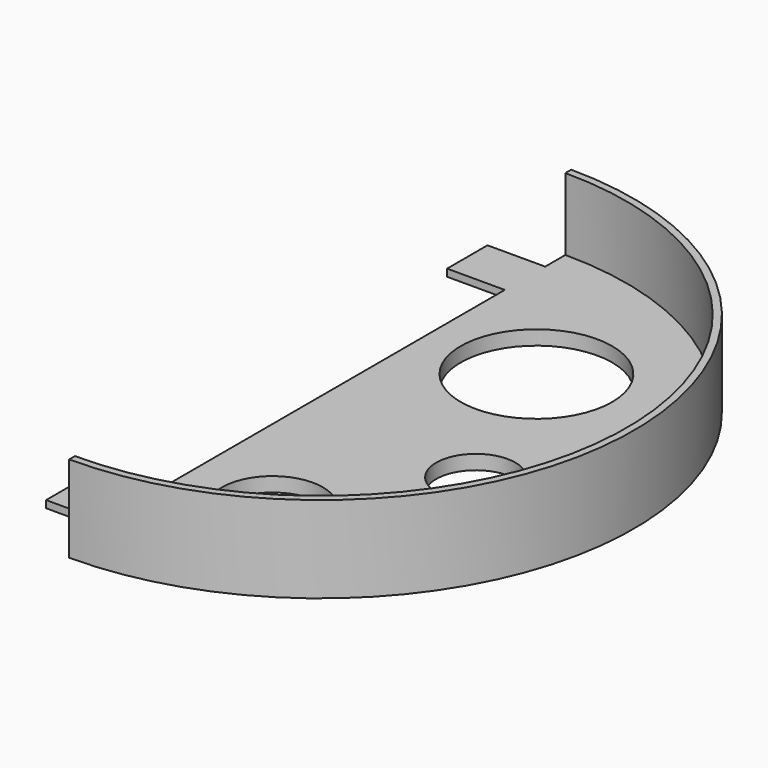
from build123d import *

# Parameters (mm, degrees)
F1_DEPTH = 12
F2_R     = 42.5
F3_DEPTH = 10
F4_R     = 10.5
F4_R_2   = 5.5
F4_R_3   = 7
F5_DEPTH = 2.001
F6_W     = 7
F6_H     = 1
F7_DEPTH = 8


with BuildPart() as f1:
    # F0 (on Top) → F1 (new body)
    with BuildSketch(Plane.XY):
        with BuildLine():
            Line((0, 43.5), (0, -43.5))
            ThreePointArc((0, -43.5), (43.5, 0), (0, 43.5))
        make_face()
    extrude(amount=F1_DEPTH)

    # F2 (on face) → F3 (cut)
    with BuildSketch(Plane.XY.offset(12)):
        Circle(F2_R)
    extrude(amount=-F3_DEPTH, mode=Mode.SUBTRACT)

    # F4 (on face) → F5 (cut, through all)
    with BuildSketch(Plane.XY.offset(2)):
        with Locations((-15, 18.734994)):
            Circle(F4_R)
        with Locations((-25, -4.265006)):
            Circle(F4_R_2)
        with Locations((-12, -23.265006)):
            Circle(F4_R_3)
        with Locations((15, 18.734994)):
            Circle(F4_R)
        with Locations((25, -4.265006)):
            Circle(F4_R_2)
        with Locations((12, -23.265006)):
            Circle(F4_R_3)
    extrude(amount=-F5_DEPTH, mode=Mode.SUBTRACT)

    # F6 (on face) → F7 (join)
    with BuildSketch(Plane(origin=(0, 0, 0), x_dir=(0, -1, 0), z_dir=(-1, 0, 0))):
        with Locations((-35.5, 1.5)):
            Rectangle(F6_W, F6_H)
        with Locations((34, 1.5)):
            Rectangle(F6_W, F6_H)
    extrude(amount=F7_DEPTH)


solid = f1.part
